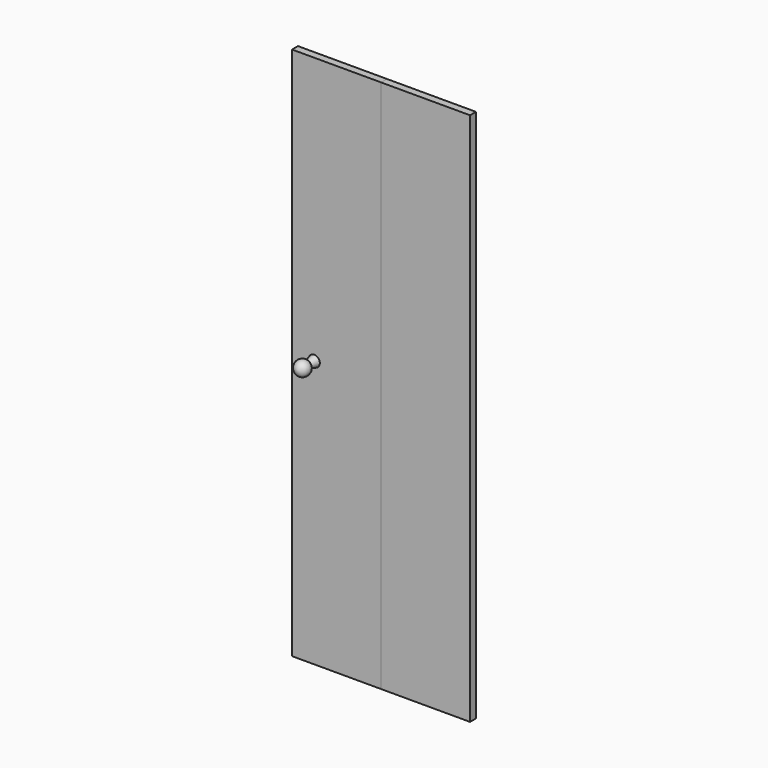
from build123d import *

# Parameters (mm, degrees)
F0_W     = 304.8
F0_H     = 1828.8
F4_DEPTH = 25.4
F8_W     = 304.8
F8_H     = 1828.8
F9_DEPTH = 25.4


with BuildPart() as f4:
    # F0 (on Front) → F4 (new body)
    with BuildSketch(Plane.XZ):
        with Locations((152.4, 914.4)):
            Rectangle(F0_W, F0_H)
    extrude(amount=-F4_DEPTH)



with BuildPart() as f5:
    # F5: sweep along a path in F3
    with BuildLine(Plane.XZ) as f5_path:
        CenterArc((76.2, 914.4), 34.6952344102, 0, 360)
    # F2 (on offset) → F5 (sweep)
    with BuildSketch(Plane.XY.offset(914.4)):
        with BuildLine():
            Line((57.15, 0), (64.6942216848, -28.1554186313))
            ThreePointArc((64.6942216848, -28.1554186313), (51.4984578744, -56.7155571689), (76.2, -76.2))
            Line((76.2, -76.2), (76.2, 0))
            Line((76.2, 0), (57.15, 0))
        make_face()
    sweep(path=f5_path.line)


with BuildPart() as f4_1:
    add(f4.part)

    add(f5.part)  # F7 merges F5
    # F7: F5 across plane
    add(f5.part.mirror(Plane.XZ.offset(-12.7)))


with BuildPart() as f9:
    # F8 (on face) → F9 (new body)
    with BuildSketch(Plane.XZ):
        with Locations((457.2, 914.4)):
            Rectangle(F8_W, F8_H)
    extrude(amount=-F9_DEPTH)


solid = Compound([f4_1.part, f9.part])
